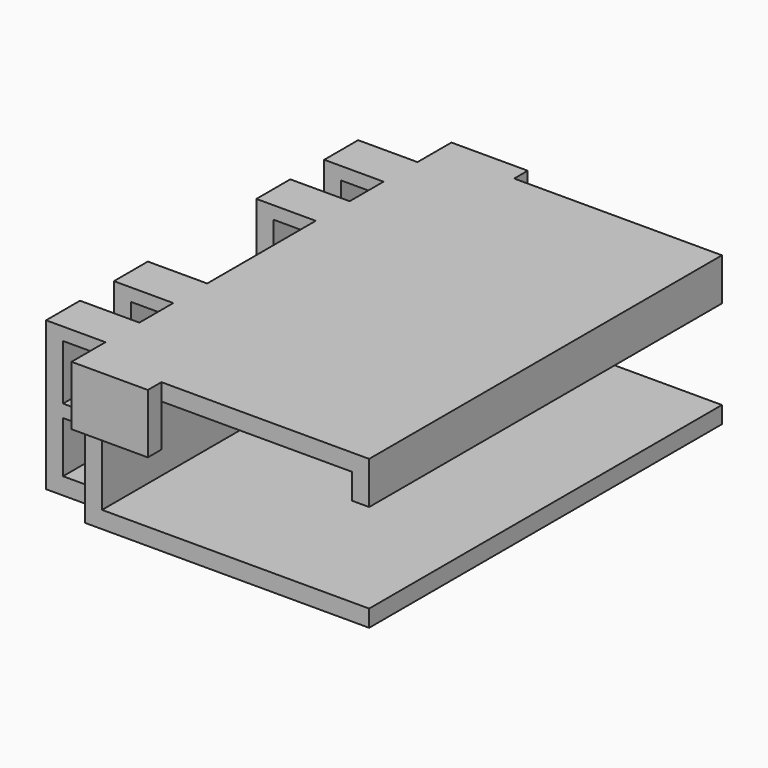
from build123d import *

# Parameters (mm, degrees)
F1_DEPTH  = 52
F2_W      = 9
F2_H      = 9
F3_DEPTH  = 2
F5_W      = 9
F5_H      = 7
F6_DEPTH  = 2
F7_W      = 9
F7_H      = 7
F8_DEPTH  = 2
F4_W      = 5
F4_H      = 17.54
F9_DEPTH  = 7
F10_W     = 5
F10_H     = 6.5
F10_H_2   = 6.04
F11_DEPTH = 51.001


with BuildPart() as f1:
    # F0 (on Front) → F1 (new body)
    with BuildSketch(Plane.XZ):
        Polygon((31.5, 0), (0, 0), (0, 13.54), (29.5, 13.54), (29.5, 10.54), (31.5, 10.54), (31.5, 15.54), (-2, 15.54), (-2, -2), (31.5, -2), align=None)
    extrude(amount=F1_DEPTH)

    # F2 (on face) → F3 (cut, through all)
    with BuildSketch(Plane(origin=(-2, 0, 0), x_dir=(0, -1, 0), z_dir=(-1, 0, 0))):
        with Locations((25.7, 9.04)):
            Rectangle(F2_W, F2_H)
    extrude(amount=-F3_DEPTH, mode=Mode.SUBTRACT)

    # F5 (on face) → F6 (join)
    with BuildSketch(Plane(origin=(0, 0, 0), x_dir=(-1, 0, 0), z_dir=(0, 1, 0))):
        with Locations((-2.5, 12.04)):
            Rectangle(F5_W, F5_H)
    extrude(amount=F6_DEPTH)

    # F7 (on face) → F8 (join)
    with BuildSketch(Plane.XZ.offset(52)):
        with Locations((2.5, 12.04)):
            Rectangle(F7_W, F7_H)
    extrude(amount=F8_DEPTH)

    # F4 (on face) → F9 (join)
    with BuildSketch(Plane(origin=(-2, 0, 0), x_dir=(0, -1, 0), z_dir=(-1, 0, 0))):
        with Locations((15.5, 6.77)):
            Rectangle(F4_W, F4_H)
        with Locations((5.5, 6.77)):
            Rectangle(F4_W, F4_H)
        with Locations((36.5, 6.77)):
            Rectangle(F4_W, F4_H)
        with Locations((46.5, 6.77)):
            Rectangle(F4_W, F4_H)
    extrude(amount=F9_DEPTH)

    # F10 (on face) → F11 (cut, through all)
    with BuildSketch(Plane(origin=(0, -3, 0), x_dir=(-1, 0, 0), z_dir=(0, 1, 0))):
        with Locations((4.5, 10.79)):
            Rectangle(F10_W, F10_H)
        with Locations((4.5, 3.02)):
            Rectangle(F10_W, F10_H_2)
    extrude(amount=-F11_DEPTH, mode=Mode.SUBTRACT)


solid = f1.part
